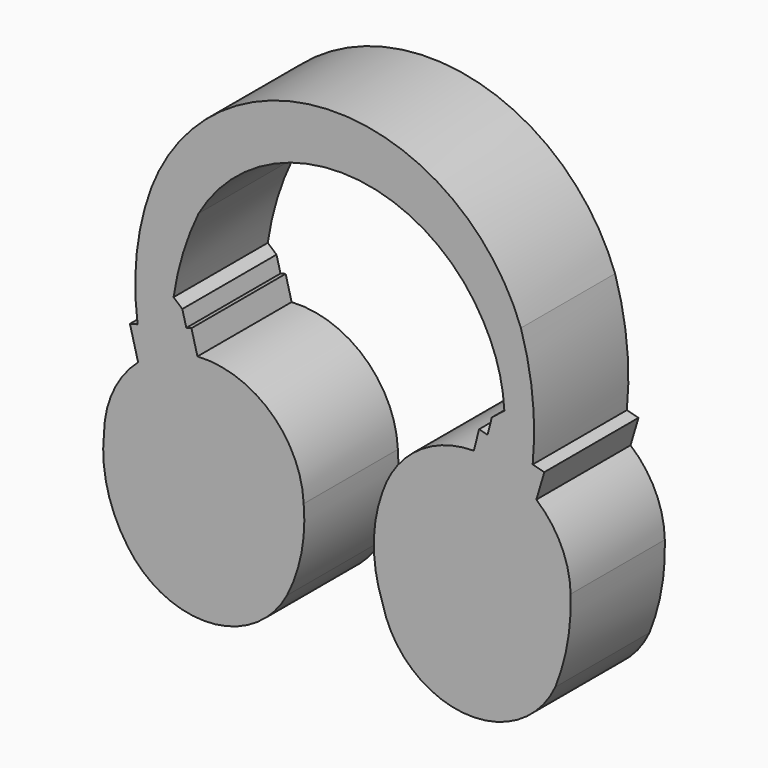
from build123d import *

# Parameters (mm, degrees)
F1_DEPTH = 50


with BuildPart() as f1:
    # F0 (on Front) → F1 (new body)
    with BuildSketch(Plane.XZ):
        with BuildLine():
            ThreePointArc((-22.373033, -83.234589), (-16.238939, -65.461971), (-15.281454, -46.684957))
            ThreePointArc((-15.281454, -46.684957), (-29.366436, -17.020139), (-60.403973, -6.293563))
            Line((-60.403973, -6.293563), (-62.945302, 3.429379))
            Line((-62.945302, 3.429379), (-65.12793, 2.858895))
            Line((-65.12793, 2.858895), (-66.823208, 9.344905))
            Line((-66.823208, 9.344905), (-70.537736, 12.555065))
            ThreePointArc((-70.537736, 12.555065), (-66.543294, 30.361402), (-59.89805, 47.357341))
            ThreePointArc((-59.89805, 47.357341), (0.934869, 82.326538), (61.075665, 46.179982))
            ThreePointArc((61.075665, 46.179982), (67.275722, 31.493121), (69.923847, 15.772687))
            Line((69.923847, 15.772687), (64.602394, 11.565027))
            Line((64.602394, 11.565027), (62.801334, 4.457333))
            Line((62.801334, 4.457333), (59.185777, 5.3735))
            Line((59.185777, 5.3735), (56.972103, -3.362534))
            ThreePointArc((56.972103, -3.362534), (32.94156, -11.217643), (18.088224, -31.676093))
            ThreePointArc((18.088224, -31.676093), (14.499796, -52.575421), (18.359333, -73.426385))
            ThreePointArc((18.359333, -73.426385), (52.46505, -102.845483), (91.557897, -80.475134))
            ThreePointArc((91.557897, -80.475134), (96.732036, -62.378917), (98.064432, -43.604746))
            ThreePointArc((98.064432, -43.604746), (94.093006, -26.742118), (83.511459, -13.025292))
            Line((83.511459, -13.025292), (86.893548, -1.647532))
            Line((86.893548, -1.647532), (81.953975, -0.395865))
            ThreePointArc((81.953975, -0.395865), (81.954293, 24.555613), (76.954913, 49.001113))
            ThreePointArc((76.954913, 49.001113), (-1.102015, 104.1533), (-80.054342, 50.290717))
            ThreePointArc((-80.054342, 50.290717), (-86.154217, 24.221468), (-85.821399, -2.54985))
            Line((-85.821399, -2.54985), (-89.067743, -3.398362))
            Line((-89.067743, -3.398362), (-85.59261, -16.693971))
            ThreePointArc((-85.59261, -16.693971), (-96.176075, -30.831318), (-100.086995, -48.052788))
            ThreePointArc((-100.086995, -48.052788), (-98.646739, -68.311792), (-90.149481, -86.758964))
            ThreePointArc((-90.149481, -86.758964), (-55.265013, -104.155311), (-22.373033, -83.234589))
        make_face()
    extrude(amount=F1_DEPTH)


solid = f1.part
